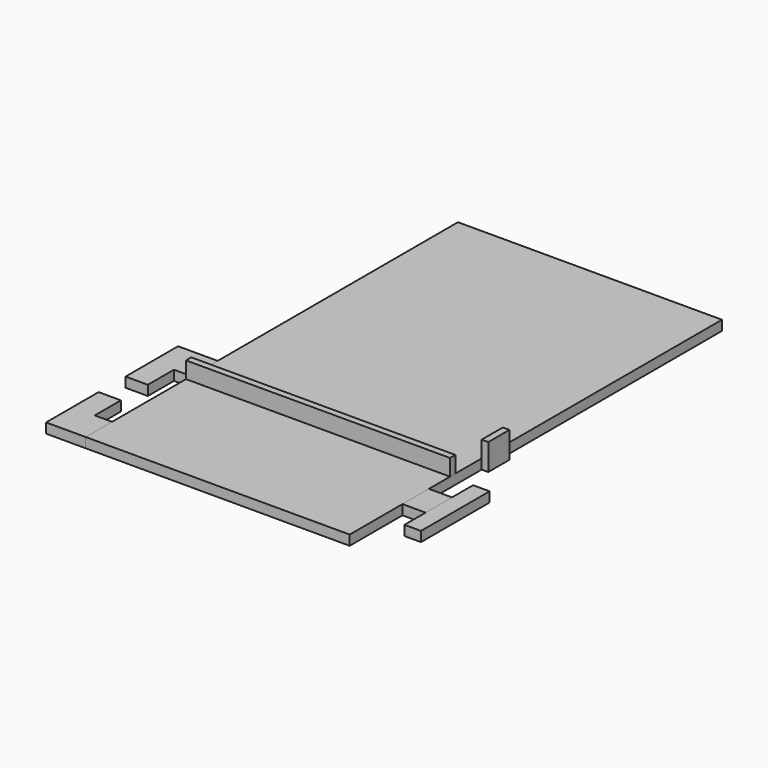
from build123d import *

# Parameters (mm, degrees)
BOX_W        = 80
BOX_H        = 141
BOX_DEPTH    = 3
BOX003_W     = 12
BOX003_H     = 10.2
BOX003_DEPTH = 4
BOX002_W     = 5.25
BOX002_H     = 30
BOX002_DEPTH = 3
BOX001_W     = 12
BOX001_H     = 50
BOX001_DEPTH = 3
BOX004_W     = 12
BOX004_H     = 10
BOX004_DEPTH = 3
BOX007_W     = 80
BOX007_H     = 2
BOX007_DEPTH = 5
BOX010_W     = 5
BOX010_H     = 26
BOX010_DEPTH = 3
BOX008_W     = 2
BOX008_H     = 8
BOX008_DEPTH = 8


with BuildPart() as cube:
    # Box → Box (new body)
    with BuildSketch(Plane(origin=(-40, 0, 0), x_dir=(1, 0, 0), z_dir=(0, 0, 1))):
        with Locations((40, 70.5)):
            Rectangle(BOX_W, BOX_H)
    extrude(amount=BOX_DEPTH)


with BuildPart() as box003:
    # Box003 → Box003 (new body)
    with BuildSketch(Plane(origin=(0, 19.9, 0), x_dir=(1, 0, 0), z_dir=(0, 0, 1))):
        with Locations((6, 5.1)):
            Rectangle(BOX003_W, BOX003_H)
    extrude(amount=BOX003_DEPTH)


with BuildPart() as box002:
    # Box002 → Box002 (new body)
    with BuildSketch(Plane(origin=(6.75, 10, 0), x_dir=(1, 0, 0), z_dir=(0, 0, 1))):
        with Locations((2.625, 15)):
            Rectangle(BOX002_W, BOX002_H)
    extrude(amount=BOX002_DEPTH)


with BuildPart() as cut001:
    # Box001 → Box001 (new body)
    with BuildSketch(Plane.XY):
        with Locations((6, 25)):
            Rectangle(BOX001_W, BOX001_H)
    extrude(amount=BOX001_DEPTH)

    # Cut: cut Box002
    add(box002.part, mode=Mode.SUBTRACT)

    # Cut001: cut Box003
    add(box003.part, mode=Mode.SUBTRACT)


with BuildPart() as cut001_1:
    # Cut001 placement: moved
    add(cut001.part.moved(Location((-52, 0, 0))))


with BuildPart() as right:
    # Box004 → Box004 (new body)
    with BuildSketch(Plane(origin=(40, 20, 0), x_dir=(1, 0, 0), z_dir=(0, 0, 1))):
        with Locations((6, 5)):
            Rectangle(BOX004_W, BOX004_H)
    extrude(amount=BOX004_DEPTH)


with BuildPart() as backstop:
    # Box007 → Box007 (new body)
    with BuildSketch(Plane(origin=(-40, 38, 3), x_dir=(1, 0, 0), z_dir=(0, 0, 1))):
        with Locations((40, 1)):
            Rectangle(BOX007_W, BOX007_H)
    extrude(amount=BOX007_DEPTH)


with BuildPart() as cube001:
    # Box010 → Box010 (new body)
    with BuildSketch(Plane(origin=(47, 12, 0), x_dir=(1, 0, 0), z_dir=(0, 0, 1))):
        with Locations((2.5, 13)):
            Rectangle(BOX010_W, BOX010_H)
    extrude(amount=BOX010_DEPTH)


with BuildPart() as left_slide:
    # Box008 → Box008 (new body)
    with BuildSketch(Plane(origin=(-42, 50, 0), x_dir=(1, 0, 0), z_dir=(0, 0, 1))):
        with Locations((1, 4)):
            Rectangle(BOX008_W, BOX008_H)
    extrude(amount=BOX008_DEPTH)


with BuildPart() as part_mirroring:
    # Part__Mirroring: instance of left-slide
    add(left_slide.part.mirror(Plane(origin=(0, 0, 0), x_dir=(0, -1, 0), z_dir=(1, 0, 0))))


solid = Compound([cube.part, cut001_1.part, right.part, backstop.part, cube001.part, part_mirroring.part])
